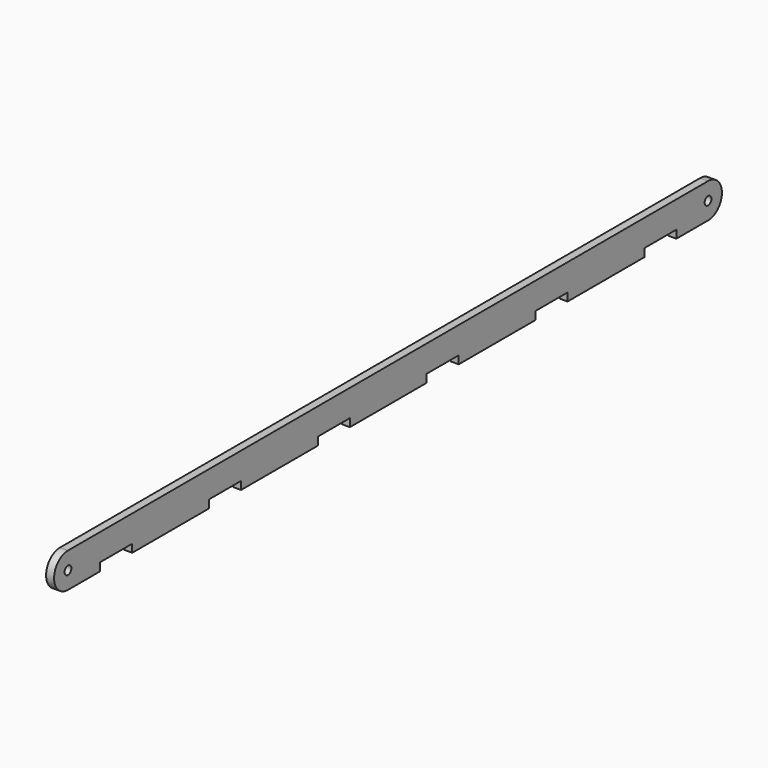
from build123d import *

# Parameters (mm, degrees)
F0_R     = 1.5875
F1_DEPTH = 3


with BuildPart() as f1:
    # F0 (on Right) → F1 (new body)
    with BuildSketch(Plane.YZ):
        with BuildLine():
            ThreePointArc((0, 0), (6.366414, 6.566279), (-0.133931, 13))
            Line((-0.133931, 13), (-300.133931, 13))
            ThreePointArc((-300.133931, 13), (-306.634276, 6.432341), (-300, 0))
            Line((-300, 0), (-285, 0))
            Line((-285, 0), (-285, 3))
            Line((-285, 3), (-270, 3))
            Line((-270, 3), (-270, 0))
            Line((-270, 0), (-234, 0))
            Line((-234, 0), (-234, 3))
            Line((-234, 3), (-219, 3))
            Line((-219, 3), (-219, 0))
            Line((-219, 0), (-183, 0))
            Line((-183, 0), (-183, 3))
            Line((-183, 3), (-168, 3))
            Line((-168, 3), (-168, 0))
            Line((-168, 0), (-132, 0))
            Line((-132, 0), (-132, 3))
            Line((-132, 3), (-117, 3))
            Line((-117, 3), (-117, 0))
            Line((-117, 0), (-81, 0))
            Line((-81, 0), (-81, 3))
            Line((-81, 3), (-66, 3))
            Line((-66, 3), (-66, 0))
            Line((-66, 0), (-30, 0))
            Line((-30, 0), (-30, 3))
            Line((-30, 3), (-15, 3))
            Line((-15, 3), (-15, 0))
            Line((-15, 0), (0, 0))
        make_face()
        with Locations((-300.133931, 6.49931)):
            Circle(F0_R, mode=Mode.SUBTRACT)
        with Locations((-0.133931, 6.49931)):
            Circle(F0_R, mode=Mode.SUBTRACT)
    extrude(amount=F1_DEPTH)


solid = f1.part
